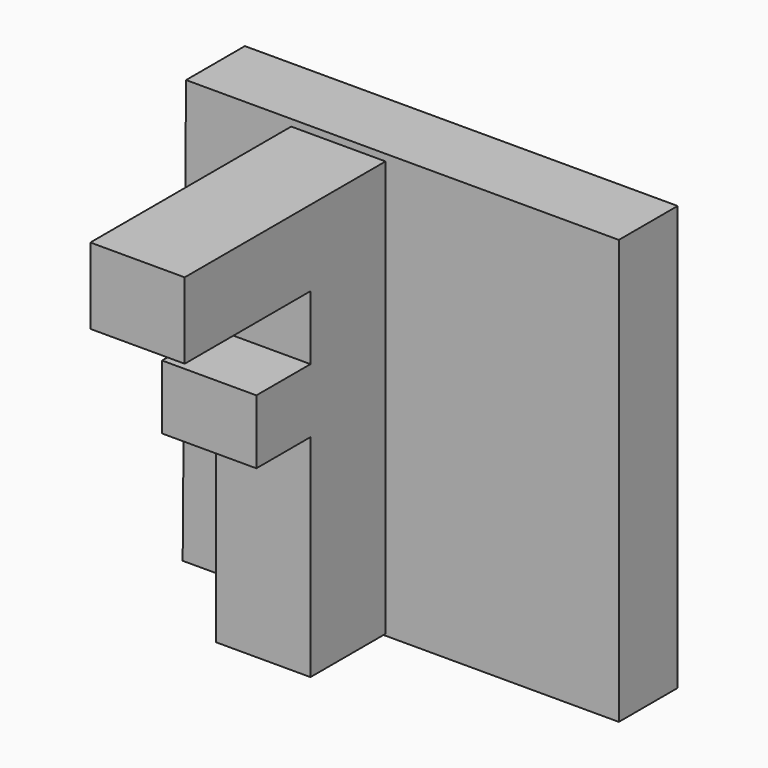
from build123d import *

# Parameters (mm, degrees)
F1_DEPTH = 13.462
F3_DEPTH = 17.272


with BuildPart() as f1:
    # F0 (on Front) → F1 (new body)
    with BuildSketch(Plane.XZ):
        Polygon((42.71327, 53.082071), (-36.52294, 53.082071), (-37.141975, -24.606558), (42.71327, -24.606558), align=None)
    extrude(amount=F1_DEPTH)

    # F2 (on Right) → F3 (join)
    with BuildSketch(Plane.YZ):
        Polygon((-12.380658, 51.844005), (-59.427157, 51.844005), (-59.427157, 37.915763), (-30.642128, 37.915763), (-30.642128, 26.15414), (-43.022785, 26.15414), (-43.022785, 14.392515), (-30.642128, 14.392515), (-30.642128, -24.297042), (-12.380658, -24.297042), align=None)
    extrude(amount=-F3_DEPTH)


solid = f1.part
